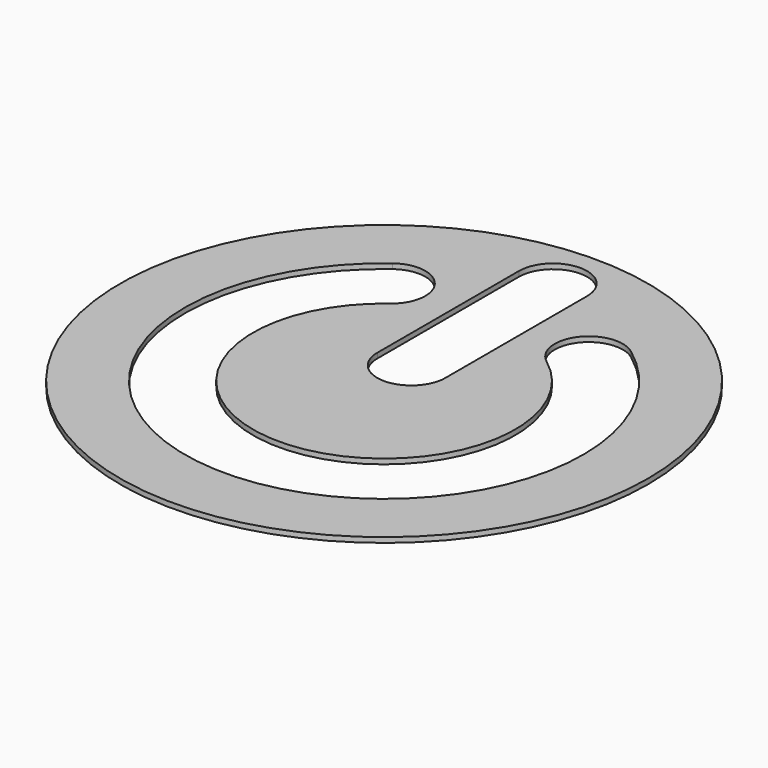
from build123d import *

# Parameters (mm, degrees)
F0_R     = 77.5
F1_DEPTH = 1.5


with BuildPart() as f1:
    # F0 (on Top) → F1 (new body)
    with BuildSketch(Plane.XY):
        Circle(F0_R)
        with BuildLine():
            ThreePointArc((34.979381, 46.890222), (0, -58.5), (-34.979381, 46.890222))
            ThreePointArc((-34.979381, 46.890222), (-20.984578, 44.85418), (-23.020619, 30.859377))
            ThreePointArc((-23.020619, 30.859377), (0, -38.5), (23.020619, 30.859377))
            ThreePointArc((23.020619, 30.859377), (20.984578, 44.85418), (34.979381, 46.890222))
        make_face(mode=Mode.SUBTRACT)
        with BuildLine():
            Line((10, 62), (10, 10))
            ThreePointArc((10, 10), (0, 0), (-10, 10))
            Line((-10, 10), (-10, 62))
            ThreePointArc((-10, 62), (0, 72), (10, 62))
        make_face(mode=Mode.SUBTRACT)
    extrude(amount=F1_DEPTH)


solid = f1.part
